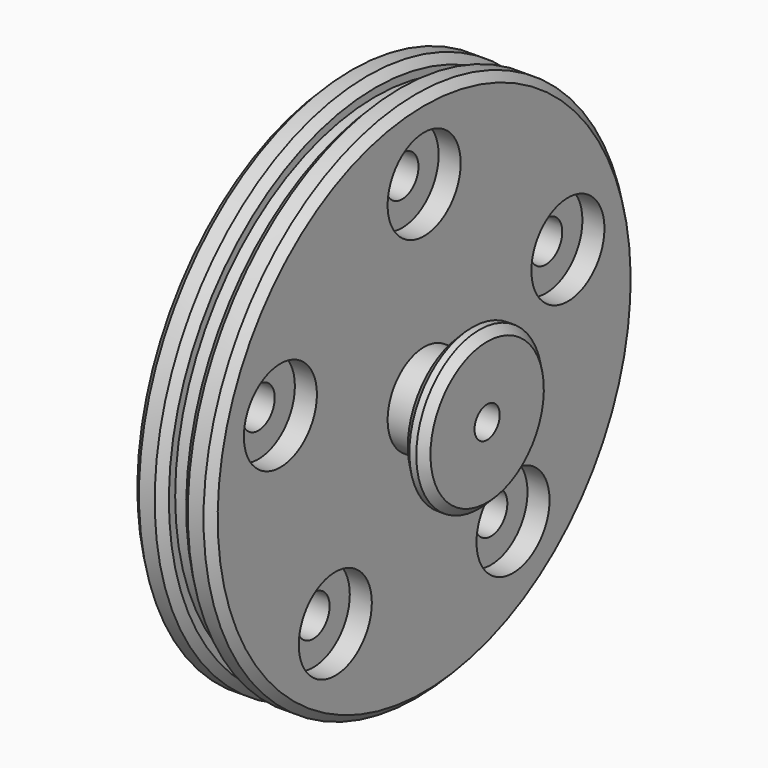
from build123d import *

# Parameters (mm, degrees)
F2_SIZE  = 2.5
F3_R     = 6.5
F4_DEPTH = 45.501
F5_START = 18.5
F3_R_2   = 14.5
F5_DEPTH = 7
F6_SIZE  = 2.5


with BuildPart() as f1:
    # F0 (on Front) → F1 (revolve)
    with BuildSketch(Plane.XZ):
        Polygon((0, 84.45), (0, 45), (5, 45), (5, 10), (20.5, 10), (20.5, 5), (45.5, 5), (45.5, 25), (38.3, 25), (38.3, 14.5), (25.5, 14.5), (25.5, 84.45), (15.5, 84.45), (15.5, 79.45), (10, 79.45), (10, 84.45), align=None)
    revolve(axis=Axis((36.0234118998, 0, 0), (1, 0, 0)))

    # F2
    f2_edges = [f1.edges().sort_by_distance(p)[0] for p in [
        (25.5, 0, -84.45),
        (15.5, 0, -84.45),
        (10, 0, -84.45),
        (0, 0, -84.45),
    ]]
    chamfer(f2_edges, length=F2_SIZE)

    # F3 (on Right) → F4 (cut, through all)
    with BuildSketch(Plane.YZ):
        with Locations((57.0633909777, 18.5410196625)):
            Circle(F3_R)
        with Locations((35.2671151375, -48.5410196625)):
            Circle(F3_R)
        with Locations((-35.2671151375, -48.5410196625)):
            Circle(F3_R)
        with Locations((-57.0633909777, 18.5410196625)):
            Circle(F3_R)
        with Locations((0, 60)):
            Circle(F3_R)
    extrude(amount=F4_DEPTH, mode=Mode.SUBTRACT)

    # F3 (on Right) → F5 (cut)
    with BuildSketch(Plane.YZ.offset(F5_START)):
        with Locations((0, 60)):
            Circle(F3_R_2)
        with Locations((0, 60)):
            Circle(F3_R, mode=Mode.SUBTRACT)
        with Locations((-57.0633909777, 18.5410196625)):
            Circle(F3_R_2)
        with Locations((-57.0633909777, 18.5410196625)):
            Circle(F3_R, mode=Mode.SUBTRACT)
        with Locations((-35.2671151375, -48.5410196625)):
            Circle(F3_R_2)
        with Locations((-35.2671151375, -48.5410196625)):
            Circle(F3_R, mode=Mode.SUBTRACT)
        with Locations((35.2671151375, -48.5410196625)):
            Circle(F3_R_2)
        with Locations((35.2671151375, -48.5410196625)):
            Circle(F3_R, mode=Mode.SUBTRACT)
        with Locations((57.0633909777, 18.5410196625)):
            Circle(F3_R_2)
        with Locations((57.0633909777, 18.5410196625)):
            Circle(F3_R, mode=Mode.SUBTRACT)
    extrude(amount=F5_DEPTH, mode=Mode.SUBTRACT)

    # F6
    f6_edges = [f1.edges().sort_by_distance(p)[0] for p in [
        (45.5, 0, -25),
        (38.3, 0, -25),
    ]]
    chamfer(f6_edges, length=F6_SIZE)


solid = f1.part
